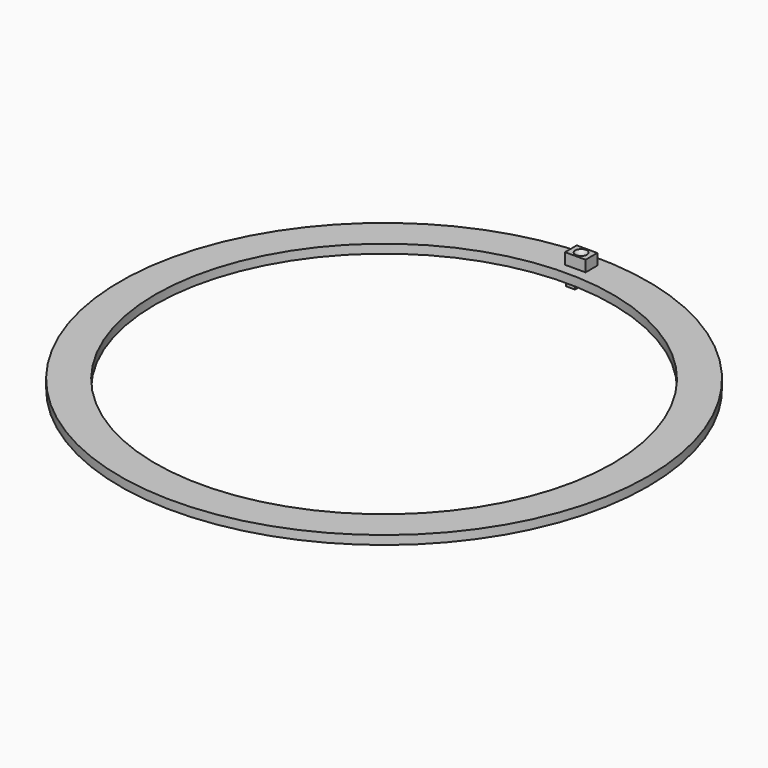
from build123d import *

# Parameters (mm, degrees)
F0_R     = 45
F0_R_2   = 39
F1_DEPTH = 1.5
F2_W     = 3.5
F2_H     = 2.5
F3_DEPTH = 1.9
F8_W     = 1.5
F8_H     = 4.5
F9_DEPTH = 1


with BuildPart() as f1:
    # F0 (on Top) → F1 (new body)
    with BuildSketch(Plane.XY):
        Circle(F0_R)
        Circle(F0_R_2, mode=Mode.SUBTRACT)
    extrude(amount=F1_DEPTH)


with BuildPart() as f3:
    # F2 (on face) → F3 (new body)
    with BuildSketch(Plane.XY.offset(1.5)):
        with Locations((0, 42)):
            Rectangle(F2_W, F2_H)
    extrude(amount=F3_DEPTH)

    # F6 (on plane+point) → F7 (revolve, cut)
    with BuildSketch(Plane.XZ.offset(-42)):
        with BuildLine():
            Line((0, 3.4), (-1, 3.4))
            ThreePointArc((-1, 3.4), (-0.5590169944, 3.0319660113), (0, 2.9))
            Line((0, 2.9), (0, 3.4))
        make_face()
    revolve(axis=Axis((0, 42, 3.15), (0, 0, 1)), mode=Mode.SUBTRACT)


with BuildPart() as f9:
    # F8 (on face) → F9 (new body)
    with BuildSketch(Plane(origin=(0, 0, 0), x_dir=(1, 0, 0), z_dir=(0, 0, -1))):
        with Locations((0, -42)):
            Rectangle(F8_W, F8_H)
    extrude(amount=F9_DEPTH)


solid = Compound([f1.part, f3.part, f9.part])
